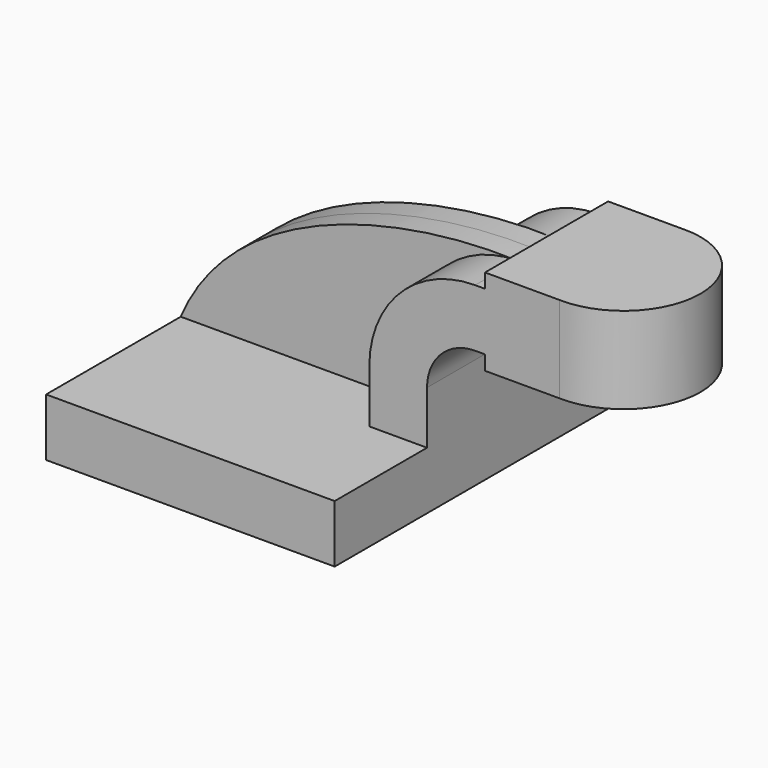
from build123d import *

# Parameters (mm, degrees)
F1_DEPTH = 63.5
F2_DEPTH = 25.4
F3_DEPTH = 25.4
F4_DEPTH = 7.9375
F0_W     = 25.4115133166
F0_H     = 28.575


with BuildPart() as f1:
    # F0 (on Front) → F1 (new body, symmetric)
    with BuildSketch(Plane.XZ):
        Polygon((28.575, 9.525), (-47.625, 9.525), (-47.625, -9.525), (47.625, -9.525), (47.625, 9.525), align=None)
    extrude(amount=F1_DEPTH, both=True)

    # F0 (on Front) → F2 (join, symmetric)
    with BuildSketch(Plane.XZ):
        with BuildLine():
            Line((28.575, 27.0002), (28.575, 9.525))
            Line((28.575, 9.525), (47.625, 9.525))
            Line((47.625, 9.525), (47.625, 27.0002))
            ThreePointArc((47.625, 27.0002), (52.2746798487, 38.2255201513), (63.5, 42.8752))
            Line((63.5, 42.8752), (66.754385829, 42.8752))
            Line((66.754385829, 42.8752), (66.754385829, 61.9252))
            Line((66.754385829, 61.9252), (63.5, 61.9252))
            ThreePointArc((63.5, 61.9252), (38.8042956671, 51.6959043329), (28.575, 27.0002))
        make_face()
    extrude(amount=F2_DEPTH, both=True)

    # F0 (on Front) → F3 (join, symmetric)
    with BuildSketch(Plane.XZ):
        Polygon((66.754385829, 66.675), (66.754385829, 61.9252), (66.754385829, 42.8752), (66.754385829, 38.1), (92.1428725123, 38.1), (92.1428725123, 66.675), align=None)
    extrude(amount=F3_DEPTH, both=True)

    # F0 (on Front) → F4 (join, symmetric)
    with BuildSketch(Plane.XZ):
        with BuildLine():
            add(Edge.make_bspline(
                [(-47.625, 9.525), (-30.3663147909, 50.6522115959), (25.7086480849, 63.3923630702), (63.5, 61.9252)],
                knots=[0, 0, 0, 0, 122.8598656398, 122.8598656398, 122.8598656398, 122.8598656398], degree=3))
            Line((-47.625, 9.525), (28.575, 9.525))
            Line((28.575, 9.525), (28.575, 27.0002))
            ThreePointArc((28.575, 27.0002), (38.8042956671, 51.6959043329), (63.5, 61.9252))
        make_face()
    extrude(amount=F4_DEPTH, both=True)

    # F0 (on Front) → F5 (revolve)
    with BuildSketch(Plane.XZ):
        with Locations((104.8486291707, 52.3875)):
            Rectangle(F0_W, F0_H)
    revolve(axis=Axis((92.1428725123, 0, 52.3875), (0, 0, 1)))


solid = f1.part
